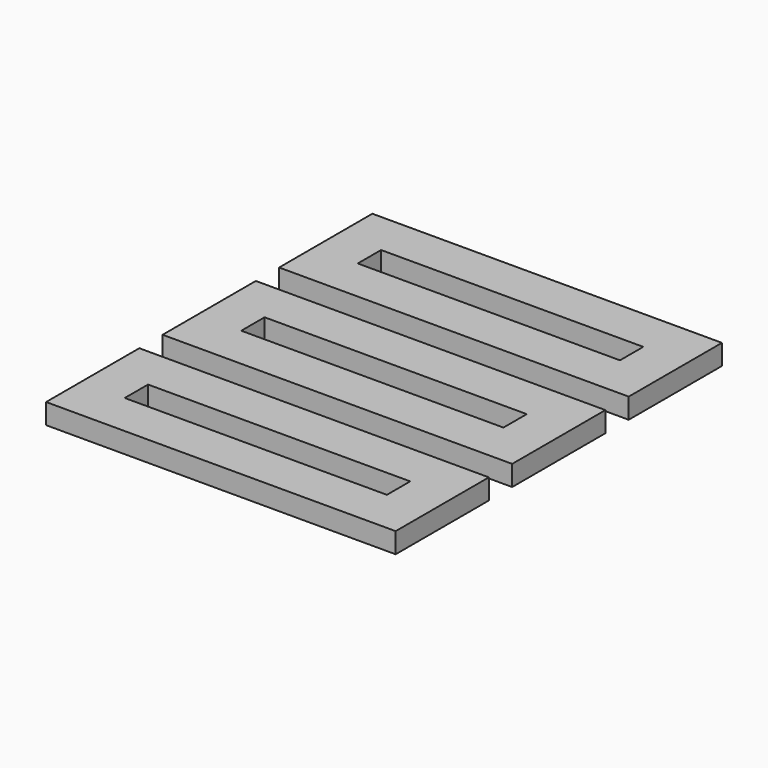
from build123d import *

# Parameters (mm, degrees)
F0_W     = 120
F0_H     = 40
F0_W_2   = 90
F0_H_2   = 10
F1_DEPTH = 7


with BuildPart() as f1:
    # F0 (on Top) → F1 (new body)
    with BuildSketch(Plane.XY):
        Rectangle(F0_W, F0_H)
        Rectangle(F0_W_2, F0_H_2, mode=Mode.SUBTRACT)
    extrude(amount=F1_DEPTH)


with BuildPart() as f1b:
    # F0 (on Top) → F1, piece 2 (new body)
    with BuildSketch(Plane.XY):
        with Locations((0, 50)):
            Rectangle(F0_W, F0_H)
        with Locations((0, 50)):
            Rectangle(F0_W_2, F0_H_2, mode=Mode.SUBTRACT)
    extrude(amount=F1_DEPTH)


with BuildPart() as f1c:
    # F0 (on Top) → F1, piece 3 (new body)
    with BuildSketch(Plane.XY):
        with Locations((0, 100)):
            Rectangle(F0_W, F0_H)
        with Locations((0, 100)):
            Rectangle(F0_W_2, F0_H_2, mode=Mode.SUBTRACT)
    extrude(amount=F1_DEPTH)


with BuildPart() as f1d:
    # F0 (on Top) → F1, piece 4 (new body)
    with BuildSketch(Plane.XY):
        with Locations((130, 0)):
            Rectangle(F0_W, F0_H)
        with Locations((130, 0)):
            Rectangle(F0_W_2, F0_H_2, mode=Mode.SUBTRACT)
    extrude(amount=F1_DEPTH)


with BuildPart() as f1e:
    # F0 (on Top) → F1, piece 5 (new body)
    with BuildSketch(Plane.XY):
        with Locations((130, 50)):
            Rectangle(F0_W, F0_H)
        with Locations((130, 50)):
            Rectangle(F0_W_2, F0_H_2, mode=Mode.SUBTRACT)
    extrude(amount=F1_DEPTH)


with BuildPart() as f1f:
    # F0 (on Top) → F1, piece 6 (new body)
    with BuildSketch(Plane.XY):
        with Locations((130, 100)):
            Rectangle(F0_W, F0_H)
        with Locations((130, 100)):
            Rectangle(F0_W_2, F0_H_2, mode=Mode.SUBTRACT)
    extrude(amount=F1_DEPTH)


with BuildPart() as f2_1:
    # F2: copy of F1
    add(f1.part.moved(Location((0, 90, 0))))


with BuildPart() as f3_1:
    # F3: copy of F2_1
    add(f2_1.part.moved(Location((0, 90, 0))))


solid = Compound([f1.part, f1b.part, f1c.part])
